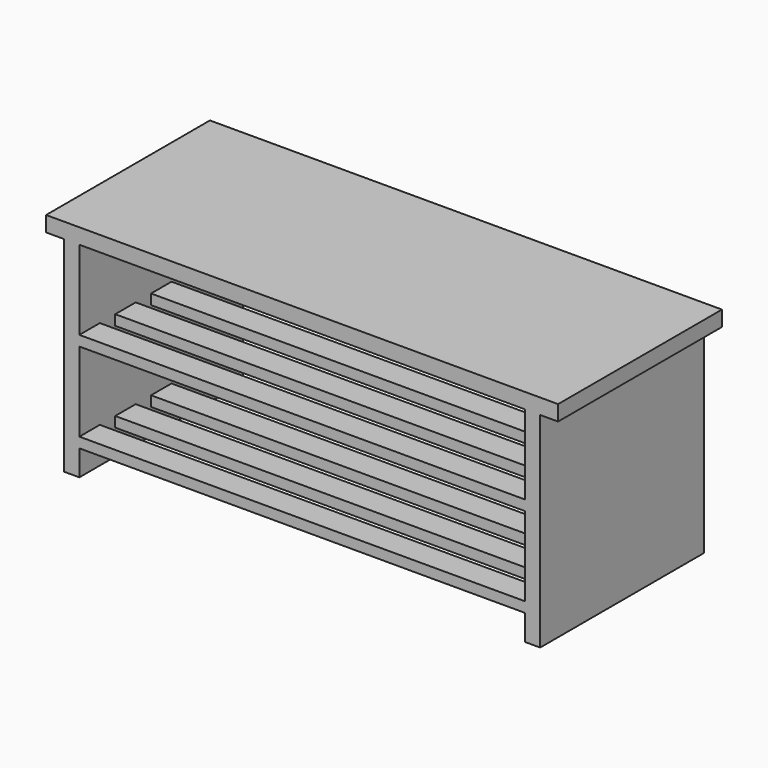
from build123d import *

# Parameters (mm, degrees)
F0_W     = 1000
F0_H     = 400
F1_DEPTH = 30
F2_W     = 30
F2_H     = 400
F3_DEPTH = 400
F4_W     = 50
F4_H     = 20
F5_DEPTH = 870


with BuildPart() as f1:
    # F0 (on Top) → F1 (new body)
    with BuildSketch(Plane.XY):
        Rectangle(F0_W, F0_H)
    extrude(amount=-F1_DEPTH)

    # F2 (on face) → F3 (join)
    with BuildSketch(Plane(origin=(0, 0, -30), x_dir=(1, 0, 0), z_dir=(0, 0, -1))):
        with Locations((-450, 0)):
            Rectangle(F2_W, F2_H)
        with Locations((450, 0)):
            Rectangle(F2_W, F2_H)
    extrude(amount=F3_DEPTH)

    # F4 (on face) → F5 (join, through all)
    with BuildSketch(Plane(origin=(435, 0, 0), x_dir=(0, -1, 0), z_dir=(-1, 0, 0))):
        with Locations((-175, -195)):
            Rectangle(F4_W, F4_H)
        with Locations((-87.5, -195)):
            Rectangle(F4_W, F4_H)
        with Locations((0, -195)):
            Rectangle(F4_W, F4_H)
        with Locations((87.5, -195)):
            Rectangle(F4_W, F4_H)
        with Locations((175, -195)):
            Rectangle(F4_W, F4_H)
        with Locations((175, -370)):
            Rectangle(F4_W, F4_H)
        with Locations((87.5, -370)):
            Rectangle(F4_W, F4_H)
        with Locations((0, -370)):
            Rectangle(F4_W, F4_H)
        with Locations((-87.5, -370)):
            Rectangle(F4_W, F4_H)
        with Locations((-175, -370)):
            Rectangle(F4_W, F4_H)
    extrude(amount=F5_DEPTH)


solid = f1.part
